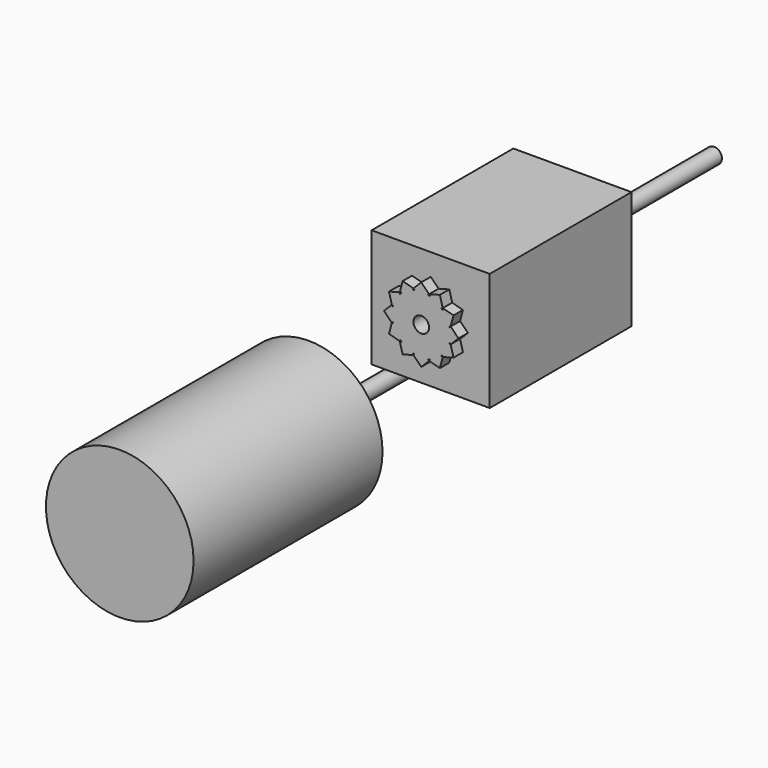
from build123d import *

# Parameters (mm, degrees)
F0_R      = 3.3528
F1_DEPTH  = 76.2
F2_R      = 31.75
F3_DEPTH  = 101.6
F4_W      = 50.8
F4_H      = 50.8
F5_DEPTH  = 76.2
F6_R      = 3.3528
F7_DEPTH  = 76.2
F9_DEPTH  = 5.08
F10_R     = 3.3655
F11_DEPTH = 76.2


with BuildPart() as f1:
    # F0 (on Front) → F1 (new body)
    with BuildSketch(Plane.XZ):
        Circle(F0_R)
    extrude(amount=F1_DEPTH)

    # F2 (on face) → F3 (join)
    with BuildSketch(Plane.XZ.offset(76.2)):
        Circle(F2_R)
    extrude(amount=F3_DEPTH)


with BuildPart() as f5:
    # F4 (on Front) → F5 (new body)
    with BuildSketch(Plane.XZ):
        with Locations((52.4626414567, 56.9596275032)):
            Rectangle(F4_W, F4_H)
    extrude(amount=F5_DEPTH)

    # F6 (on face) → F7 (join)
    with BuildSketch(Plane(origin=(0, 0, 0), x_dir=(-1, 0, 0), z_dir=(0, 1, 0))):
        with Locations((-52.4626414567, 56.9596275032)):
            Circle(F6_R)
    extrude(amount=F7_DEPTH)

    # F8 (on face) → F9 (join)
    with BuildSketch(Plane.XZ.offset(76.2)):
        with BuildLine():
            ThreePointArc((64.5323194972, 60.9109401964), (64.7298994506, 60.246629376), (64.8909456019, 59.5725293527))
            Line((64.8909456019, 59.5725293527), (65.09799848, 60.3452612136))
            Line((65.09799848, 60.3452612136), (64.5323194972, 60.9109401964))
        make_face()
        with BuildLine():
            ThreePointArc((60.9396329086, 66.416403694), (61.4428975778, 65.9398836242), (61.9194176476, 65.436618955))
            Line((61.9194176476, 65.436618955), (61.7123647695, 66.209350816))
            Line((61.7123647695, 66.209350816), (60.9396329086, 66.416403694))
        make_face()
        with BuildLine():
            ThreePointArc((55.0755433063, 69.3879316483), (55.7496433295, 69.226885497), (56.41395415, 69.0293055436))
            Line((56.41395415, 69.0293055436), (55.8482751672, 69.5949845264))
            Line((55.8482751672, 69.5949845264), (55.0755433063, 69.3879316483))
        make_face()
        with BuildLine():
            Line((49.0770077463, 69.5949845264), (48.5113287635, 69.0293055436))
            ThreePointArc((48.5113287635, 69.0293055436), (49.1756395839, 69.226885497), (49.8497396072, 69.3879316483))
            Line((49.8497396072, 69.3879316483), (49.0770077463, 69.5949845264))
        make_face()
        with BuildLine():
            ThreePointArc((43.0058652658, 65.436618955), (43.4823853357, 65.9398836242), (43.9856500048, 66.416403694))
            Line((43.9856500048, 66.416403694), (43.2129181439, 66.209350816))
            Line((43.2129181439, 66.209350816), (43.0058652658, 65.436618955))
        make_face()
        with BuildLine():
            ThreePointArc((40.0343373116, 59.5725293527), (40.1953834629, 60.246629376), (40.3929634163, 60.9109401964))
            Line((40.3929634163, 60.9109401964), (39.8272844335, 60.3452612136))
            Line((39.8272844335, 60.3452612136), (40.0343373116, 59.5725293527))
        make_face()
        with BuildLine():
            Line((39.8272844335, 53.5739937927), (40.3929634163, 53.0083148099))
            ThreePointArc((40.3929634163, 53.0083148099), (40.1953834629, 53.6726256304), (40.0343373116, 54.3467256536))
            Line((40.0343373116, 54.3467256536), (39.8272844335, 53.5739937927))
        make_face()
        with BuildLine():
            Line((43.2129181439, 47.7099041904), (43.9856500048, 47.5028513123))
            ThreePointArc((43.9856500048, 47.5028513123), (43.4823853357, 47.9793713821), (43.0058652658, 48.4826360513))
            Line((43.0058652658, 48.4826360513), (43.2129181439, 47.7099041904))
        make_face()
        with BuildLine():
            Line((49.0770077463, 44.3242704799), (49.8497396072, 44.531323358))
            ThreePointArc((49.8497396072, 44.531323358), (49.1756395839, 44.6923695093), (48.5113287635, 44.8899494627))
            Line((48.5113287635, 44.8899494627), (49.0770077463, 44.3242704799))
        make_face()
        with BuildLine():
            Line((55.8482751672, 44.3242704799), (56.41395415, 44.8899494627))
            ThreePointArc((56.41395415, 44.8899494627), (55.7496433295, 44.6923695093), (55.0755433063, 44.531323358))
            Line((55.0755433063, 44.531323358), (55.8482751672, 44.3242704799))
        make_face()
        with BuildLine():
            Line((61.7123647695, 47.7099041904), (61.9194176476, 48.4826360513))
            ThreePointArc((61.9194176476, 48.4826360513), (61.4428975778, 47.9793713821), (60.9396329086, 47.5028513123))
            Line((60.9396329086, 47.5028513123), (61.7123647695, 47.7099041904))
        make_face()
        with BuildLine():
            Line((65.09799848, 53.5739937927), (64.8909456019, 54.3467256536))
            ThreePointArc((64.8909456019, 54.3467256536), (64.7298994506, 53.6726256304), (64.5323194972, 53.0083148099))
            Line((64.5323194972, 53.0083148099), (65.09799848, 53.5739937927))
        make_face()
        with BuildLine():
            ThreePointArc((61.9194176476, 65.436618955), (63.4611640848, 63.3096275032), (64.5323194972, 60.9109401964))
            Line((64.5323194972, 60.9109401964), (65.09799848, 60.3452612136))
            Line((65.09799848, 60.3452612136), (66.3372264259, 64.97012287))
            Line((66.3372264259, 64.97012287), (61.7123647695, 66.209350816))
            Line((61.7123647695, 66.209350816), (61.9194176476, 65.436618955))
        make_face()
        with BuildLine():
            ThreePointArc((56.41395415, 69.0293055436), (58.8126414567, 67.9581501312), (60.9396329086, 66.416403694))
            Line((60.9396329086, 66.416403694), (61.7123647695, 66.209350816))
            Line((61.7123647695, 66.209350816), (60.4731368236, 70.8342124723))
            Line((60.4731368236, 70.8342124723), (55.8482751672, 69.5949845264))
            Line((55.8482751672, 69.5949845264), (56.41395415, 69.0293055436))
        make_face()
        with BuildLine():
            ThreePointArc((49.8497396072, 69.3879316483), (52.4626414567, 69.6596275032), (55.0755433063, 69.3879316483))
            Line((55.0755433063, 69.3879316483), (55.8482751672, 69.5949845264))
            Line((55.8482751672, 69.5949845264), (52.4626414567, 72.9806182369))
            Line((52.4626414567, 72.9806182369), (49.0770077463, 69.5949845264))
            Line((49.0770077463, 69.5949845264), (49.8497396072, 69.3879316483))
        make_face()
        with BuildLine():
            ThreePointArc((40.3929634163, 60.9109401964), (41.4641188287, 63.3096275032), (43.0058652658, 65.436618955))
            Line((43.0058652658, 65.436618955), (43.2129181439, 66.209350816))
            Line((43.2129181439, 66.209350816), (38.5880564875, 64.97012287))
            Line((38.5880564875, 64.97012287), (39.8272844335, 60.3452612136))
            Line((39.8272844335, 60.3452612136), (40.3929634163, 60.9109401964))
        make_face()
        with BuildLine():
            ThreePointArc((40.0343373116, 54.3467256536), (39.7626414567, 56.9596275032), (40.0343373116, 59.5725293527))
            Line((40.0343373116, 59.5725293527), (39.8272844335, 60.3452612136))
            Line((39.8272844335, 60.3452612136), (36.441650723, 56.9596275032))
            Line((36.441650723, 56.9596275032), (39.8272844335, 53.5739937927))
            Line((39.8272844335, 53.5739937927), (40.0343373116, 54.3467256536))
        make_face()
        with BuildLine():
            Line((43.2129181439, 47.7099041904), (43.0058652658, 48.4826360513))
            ThreePointArc((43.0058652658, 48.4826360513), (41.4641188287, 50.6096275032), (40.3929634163, 53.0083148099))
            Line((40.3929634163, 53.0083148099), (39.8272844335, 53.5739937927))
            Line((39.8272844335, 53.5739937927), (38.5880564875, 48.9491321363))
            Line((38.5880564875, 48.9491321363), (43.2129181439, 47.7099041904))
        make_face()
        with BuildLine():
            Line((49.0770077463, 44.3242704799), (48.5113287635, 44.8899494627))
            ThreePointArc((48.5113287635, 44.8899494627), (46.1126414567, 45.9611048751), (43.9856500048, 47.5028513123))
            Line((43.9856500048, 47.5028513123), (43.2129181439, 47.7099041904))
            Line((43.2129181439, 47.7099041904), (44.4521460899, 43.085042534))
            Line((44.4521460899, 43.085042534), (49.0770077463, 44.3242704799))
        make_face()
        with BuildLine():
            Line((55.8482751672, 44.3242704799), (55.0755433063, 44.531323358))
            ThreePointArc((55.0755433063, 44.531323358), (52.4626414567, 44.2596275032), (49.8497396072, 44.531323358))
            Line((49.8497396072, 44.531323358), (49.0770077463, 44.3242704799))
            Line((49.0770077463, 44.3242704799), (52.4626414567, 40.9386367694))
            Line((52.4626414567, 40.9386367694), (55.8482751672, 44.3242704799))
        make_face()
        with BuildLine():
            Line((61.7123647695, 47.7099041904), (60.9396329086, 47.5028513123))
            ThreePointArc((60.9396329086, 47.5028513123), (58.8126414567, 45.9611048751), (56.41395415, 44.8899494627))
            Line((56.41395415, 44.8899494627), (55.8482751672, 44.3242704799))
            Line((55.8482751672, 44.3242704799), (60.4731368236, 43.085042534))
            Line((60.4731368236, 43.085042534), (61.7123647695, 47.7099041904))
        make_face()
        with BuildLine():
            Line((65.09799848, 53.5739937927), (64.5323194972, 53.0083148099))
            ThreePointArc((64.5323194972, 53.0083148099), (63.4611640848, 50.6096275032), (61.9194176476, 48.4826360513))
            Line((61.9194176476, 48.4826360513), (61.7123647695, 47.7099041904))
            Line((61.7123647695, 47.7099041904), (66.3372264259, 48.9491321363))
            Line((66.3372264259, 48.9491321363), (65.09799848, 53.5739937927))
        make_face()
        with BuildLine():
            ThreePointArc((64.8909456019, 59.5725293527), (65.0945348746, 58.2731223369), (65.1626414567, 56.9596275032))
            ThreePointArc((65.1626414567, 56.9596275032), (65.0945348746, 55.6461326694), (64.8909456019, 54.3467256536))
            Line((64.8909456019, 54.3467256536), (65.09799848, 53.5739937927))
            Line((65.09799848, 53.5739937927), (68.4836321904, 56.9596275032))
            Line((68.4836321904, 56.9596275032), (65.09799848, 60.3452612136))
            Line((65.09799848, 60.3452612136), (64.8909456019, 59.5725293527))
        make_face()
        Polygon((64.5323194972, 53.7255670193), (64.5323194972, 60.193687987), (61.2982590133, 65.7952450598), (55.6967019406, 69.0293055436), (49.2285809729, 69.0293055436), (43.6270239001, 65.7952450598), (40.3929634163, 60.193687987), (40.3929634163, 53.7255670193), (43.6270239001, 48.1240099466), (49.2285809729, 44.8899494627), (55.6967019406, 44.8899494627), (61.2982590133, 48.1240099466), align=None)
        with BuildLine():
            Line((43.6270239001, 65.7952450598), (49.2285809729, 69.0293055436))
            Line((49.2285809729, 69.0293055436), (48.5113287635, 69.0293055436))
            ThreePointArc((48.5113287635, 69.0293055436), (46.1126414567, 67.9581501312), (43.9856500048, 66.416403694))
            Line((43.9856500048, 66.416403694), (43.6270239001, 65.7952450598))
        make_face()
        with BuildLine():
            ThreePointArc((43.9856500048, 66.416403694), (46.1126414567, 67.9581501312), (48.5113287635, 69.0293055436))
            Line((48.5113287635, 69.0293055436), (49.0770077463, 69.5949845264))
            Line((49.0770077463, 69.5949845264), (44.4521460899, 70.8342124723))
            Line((44.4521460899, 70.8342124723), (43.2129181439, 66.209350816))
            Line((43.2129181439, 66.209350816), (43.9856500048, 66.416403694))
        make_face()
        with BuildLine():
            Line((49.2285809729, 69.0293055436), (55.6967019406, 69.0293055436))
            Line((55.6967019406, 69.0293055436), (55.0755433063, 69.3879316483))
            ThreePointArc((55.0755433063, 69.3879316483), (52.4626414567, 69.6596275032), (49.8497396072, 69.3879316483))
            Line((49.8497396072, 69.3879316483), (49.2285809729, 69.0293055436))
        make_face()
        with BuildLine():
            Line((55.6967019406, 69.0293055436), (61.2982590133, 65.7952450598))
            Line((61.2982590133, 65.7952450598), (60.9396329086, 66.416403694))
            ThreePointArc((60.9396329086, 66.416403694), (58.8126414567, 67.9581501312), (56.41395415, 69.0293055436))
            Line((56.41395415, 69.0293055436), (55.6967019406, 69.0293055436))
        make_face()
        with BuildLine():
            Line((64.5323194972, 60.193687987), (64.5323194972, 60.9109401964))
            ThreePointArc((64.5323194972, 60.9109401964), (63.4611640848, 63.3096275032), (61.9194176476, 65.436618955))
            Line((61.9194176476, 65.436618955), (61.2982590133, 65.7952450598))
            Line((61.2982590133, 65.7952450598), (64.5323194972, 60.193687987))
        make_face()
        with BuildLine():
            ThreePointArc((64.8909456019, 54.3467256536), (65.0945348746, 55.6461326694), (65.1626414567, 56.9596275032))
            ThreePointArc((65.1626414567, 56.9596275032), (65.0945348746, 58.2731223369), (64.8909456019, 59.5725293527))
            Line((64.8909456019, 59.5725293527), (64.5323194972, 60.193687987))
            Line((64.5323194972, 60.193687987), (64.5323194972, 53.7255670193))
            Line((64.5323194972, 53.7255670193), (64.8909456019, 54.3467256536))
        make_face()
        with BuildLine():
            ThreePointArc((61.9194176476, 48.4826360513), (63.4611640848, 50.6096275032), (64.5323194972, 53.0083148099))
            Line((64.5323194972, 53.0083148099), (64.5323194972, 53.7255670193))
            Line((64.5323194972, 53.7255670193), (61.2982590133, 48.1240099466))
            Line((61.2982590133, 48.1240099466), (61.9194176476, 48.4826360513))
        make_face()
        with BuildLine():
            Line((60.9396329086, 47.5028513123), (61.2982590133, 48.1240099466))
            Line((61.2982590133, 48.1240099466), (55.6967019406, 44.8899494627))
            Line((55.6967019406, 44.8899494627), (56.41395415, 44.8899494627))
            ThreePointArc((56.41395415, 44.8899494627), (58.8126414567, 45.9611048751), (60.9396329086, 47.5028513123))
        make_face()
        with BuildLine():
            Line((55.0755433063, 44.531323358), (55.6967019406, 44.8899494627))
            Line((55.6967019406, 44.8899494627), (49.2285809729, 44.8899494627))
            Line((49.2285809729, 44.8899494627), (49.8497396072, 44.531323358))
            ThreePointArc((49.8497396072, 44.531323358), (52.4626414567, 44.2596275032), (55.0755433063, 44.531323358))
        make_face()
        with BuildLine():
            Line((48.5113287635, 44.8899494627), (49.2285809729, 44.8899494627))
            Line((49.2285809729, 44.8899494627), (43.6270239001, 48.1240099466))
            Line((43.6270239001, 48.1240099466), (43.9856500048, 47.5028513123))
            ThreePointArc((43.9856500048, 47.5028513123), (46.1126414567, 45.9611048751), (48.5113287635, 44.8899494627))
        make_face()
        with BuildLine():
            Line((43.0058652658, 48.4826360513), (43.6270239001, 48.1240099466))
            Line((43.6270239001, 48.1240099466), (40.3929634163, 53.7255670193))
            Line((40.3929634163, 53.7255670193), (40.3929634163, 53.0083148099))
            ThreePointArc((40.3929634163, 53.0083148099), (41.4641188287, 50.6096275032), (43.0058652658, 48.4826360513))
        make_face()
        with BuildLine():
            Line((40.3929634163, 53.7255670193), (40.3929634163, 60.193687987))
            Line((40.3929634163, 60.193687987), (40.0343373116, 59.5725293527))
            ThreePointArc((40.0343373116, 59.5725293527), (39.7626414567, 56.9596275032), (40.0343373116, 54.3467256536))
            Line((40.0343373116, 54.3467256536), (40.3929634163, 53.7255670193))
        make_face()
        with BuildLine():
            Line((40.3929634163, 60.193687987), (43.6270239001, 65.7952450598))
            Line((43.6270239001, 65.7952450598), (43.0058652658, 65.436618955))
            ThreePointArc((43.0058652658, 65.436618955), (41.4641188287, 63.3096275032), (40.3929634163, 60.9109401964))
            Line((40.3929634163, 60.9109401964), (40.3929634163, 60.193687987))
        make_face()
    extrude(amount=F9_DEPTH)

    # F10 (on face) → F11 (cut)
    with BuildSketch(Plane.XZ.offset(81.28)):
        with Locations((52.4626414567, 56.9596275032)):
            Circle(F10_R)
    extrude(amount=-F11_DEPTH, mode=Mode.SUBTRACT)


solid = Compound([f1.part, f5.part])
